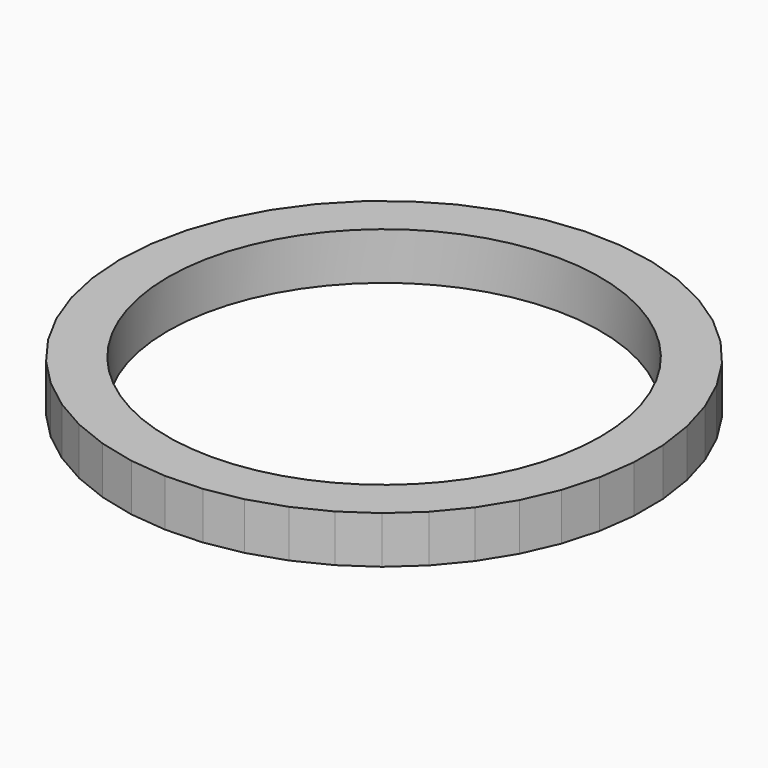
from build123d import *

# Parameters (mm, degrees)
F0_R     = 14.518826
F1_DEPTH = 3.175


with BuildPart() as f1:
    # F0 (on Top) → F1 (new body)
    with BuildSketch(Plane.XY):
        Polygon((-107.631545, 19.500893), (-105.227754, 18.914334), (-102.765722, 18.668028), (-100.293372, 18.766767), (-97.858825, 19.208629), (-95.509466, 19.985015), (-93.291022, 21.080813), (-91.246674, 22.474694), (-89.416212, 24.139528), (-87.835264, 26.042912), (-86.534602, 28.147797), (-85.539541, 30.413215), (-84.869449, 32.795071), (-84.537369, 35.247007), (-84.549764, 37.721297), (-84.906392, 40.169782), (-85.600314, 42.544805), (-86.618022, 44.80014), (-87.939707, 46.891889), (-89.539645, 48.779337), (-91.386695, 50.425749), (-93.444905, 51.799079), (-95.674216, 52.872596), (-98.031235, 53.625405), (-100.470088, 54.042854), (-102.943303, 54.116818), (-105.402743, 53.845858), (-107.800537, 53.235246), (-110.090015, 52.296868), (-112.226616, 51.048989), (-114.168752, 49.515897), (-115.878622, 47.727431), (-117.322945, 45.718403), (-118.47361, 43.527916), (-119.308219, 41.198604), (-119.810529, 38.775807), (-119.970762, 36.306679), (-119.7858, 33.839281), (-119.259242, 31.421638), (-118.401337, 29.100805), (-117.228785, 26.921956), (-115.764406, 24.927499), (-114.036703, 23.156254), (-112.079305, 21.642696), (-109.93031, 20.416286), align=None)
        with Locations((-102.235563, 36.395524)):
            Circle(F0_R, mode=Mode.SUBTRACT)
    extrude(amount=F1_DEPTH)


solid = f1.part
